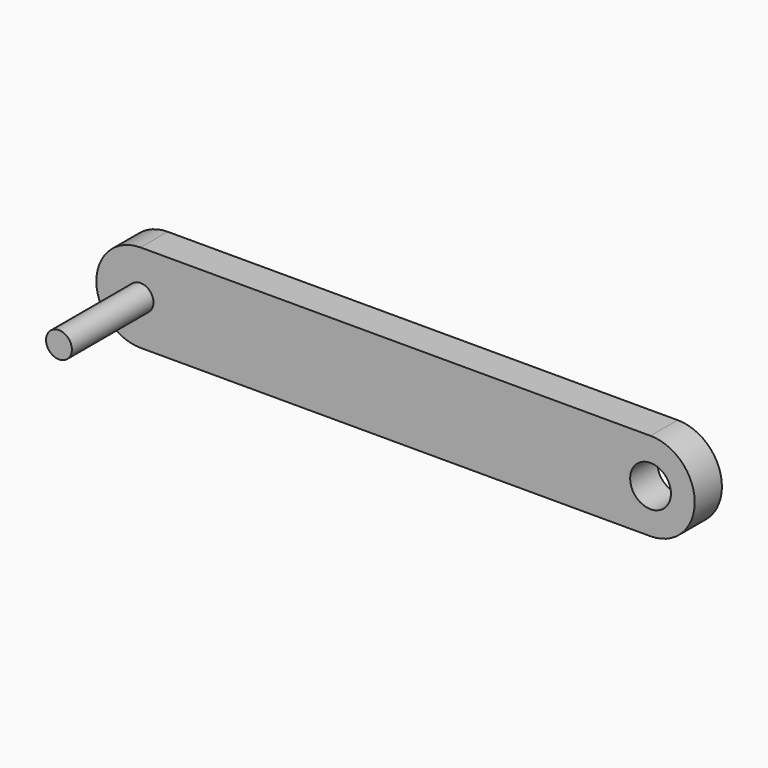
from build123d import *

# Parameters (mm, degrees)
F0_R     = 3
F1_DEPTH = 5
F2_R     = 1.9
F3_DEPTH = 15


with BuildPart() as f1:
    # F0 (on Front) → F1 (new body)
    with BuildSketch(Plane.XZ):
        with BuildLine():
            Line((75, 6.5), (0, 6.5))
            ThreePointArc((0, 6.5), (-6.5, 0), (0, -6.5))
            Line((0, -6.5), (75, -6.5))
            ThreePointArc((75, -6.5), (81.5, 0), (75, 6.5))
        make_face()
        with Locations((75, 0)):
            Circle(F0_R, mode=Mode.SUBTRACT)
    extrude(amount=F1_DEPTH)

    # F2 (on face) → F3 (join)
    with BuildSketch(Plane.XZ.offset(5)):
        Circle(F2_R)
    extrude(amount=F3_DEPTH)


solid = f1.part
